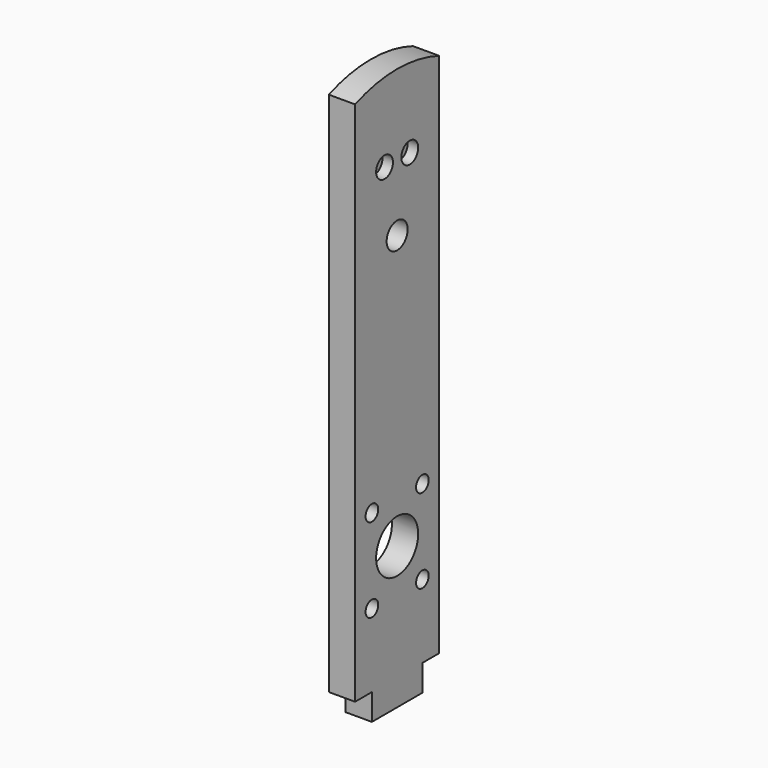
from build123d import *

# Parameters (mm, degrees)
F0_R           = 50
F0_R_2         = 25
F1_DEPTH       = 50
F2_D           = 30
F3_D           = 20
F3_CBORE_D     = 40
F3_CBORE_DEPTH = 20


with BuildPart() as f1:
    # F0 (on Right) → F1 (new body)
    with BuildSketch(Plane.YZ):
        with BuildLine():
            Line((-60, -25), (60, -25))
            Line((60, -25), (60, 25))
            Line((60, 25), (100, 25))
            Line((100, 25), (100, 1025))
            ThreePointArc((100, 1025), (0, 1043.567766), (-100, 1025))
            Line((-100, 1025), (-100, 25))
            Line((-100, 25), (-60, 25))
            Line((-60, 25), (-60, -25))
        make_face()
        with Locations((0, 245)):
            Circle(F0_R, mode=Mode.SUBTRACT)
        with Locations((0, 765)):
            Circle(F0_R_2, mode=Mode.SUBTRACT)
    extrude(amount=-F1_DEPTH)

    # F2 (through all)
    with Locations(Plane.YZ):
        with Locations((-60, 165), (-60, 325), (60, 325), (60, 165)):
            Hole(F2_D / 2)

    # F3 (through all)
    with Locations(Plane.YZ):
        with Locations((30, 891.491106), (-30, 891.491106)):
            CounterBoreHole(F3_D / 2, F3_CBORE_D / 2, F3_CBORE_DEPTH)


solid = f1.part
